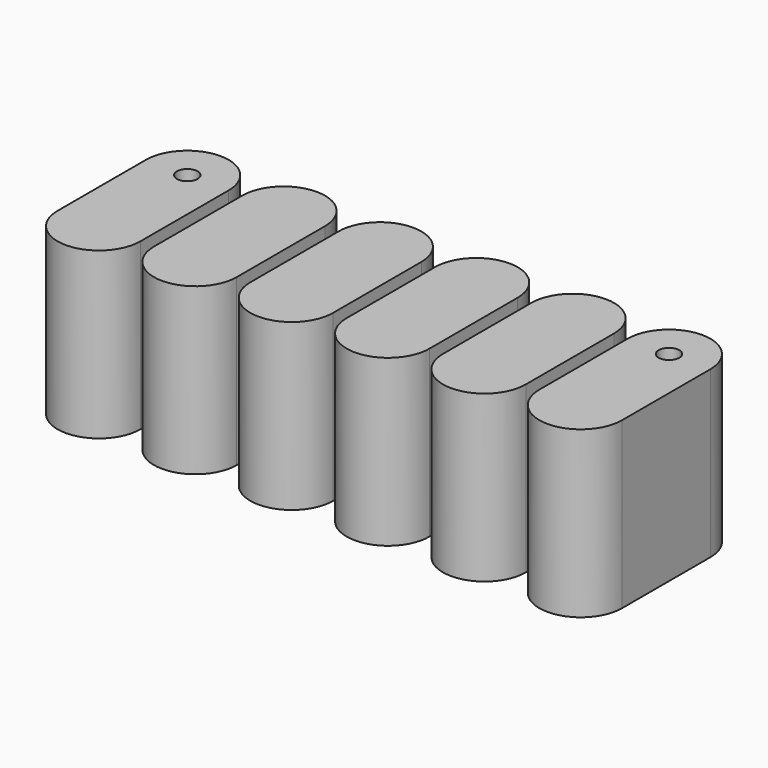
from build123d import *

# Parameters (mm, degrees)
F0_R     = 114.3
F1_DEPTH = 1828.8


with BuildPart() as f1:
    # F0 (on Top) → F1 (new body)
    with BuildSketch(Plane.XY):
        with BuildLine():
            ThreePointArc((457.2, 1219.2), (0, 1676.4), (-457.2, 1219.2))
            Line((-457.2, 1219.2), (-457.2, 0))
            ThreePointArc((-457.2, 0), (0, -457.2), (457.2, 0))
            Line((457.2, 0), (457.2, 1219.2))
        make_face()
        with Locations((0, 1219.2)):
            Circle(F0_R, mode=Mode.SUBTRACT)
        with BuildLine():
            Line((1523.996811, -2.608398), (1523.996811, 1216.591602))
            ThreePointArc((1523.996811, 1216.591602), (1066.796811, 1673.791602), (609.596811, 1216.591602))
            Line((609.596811, 1216.591602), (609.596811, -2.608398))
            ThreePointArc((609.596811, -2.608398), (1066.796811, -459.808398), (1523.996811, -2.608398))
        make_face()
        with BuildLine():
            Line((2590.793622, -5.216796), (2590.793622, 1213.983204))
            ThreePointArc((2590.793622, 1213.983204), (2133.593622, 1671.183204), (1676.393622, 1213.983204))
            Line((1676.393622, 1213.983204), (1676.393622, -5.216796))
            ThreePointArc((1676.393622, -5.216796), (2133.593622, -462.416796), (2590.793622, -5.216796))
        make_face()
        with BuildLine():
            Line((3657.590433, -7.825194), (3657.590433, 1211.374806))
            ThreePointArc((3657.590433, 1211.374806), (3200.390433, 1668.574806), (2743.190433, 1211.374806))
            Line((2743.190433, 1211.374806), (2743.190433, -7.825194))
            ThreePointArc((2743.190433, -7.825194), (3200.390433, -465.025194), (3657.590433, -7.825194))
        make_face()
        with BuildLine():
            Line((4724.387245, -10.433591), (4724.387245, 1208.766409))
            ThreePointArc((4724.387245, 1208.766409), (4267.187245, 1665.966409), (3809.987245, 1208.766409))
            Line((3809.987245, 1208.766409), (3809.987245, -10.433591))
            ThreePointArc((3809.987245, -10.433591), (4267.187245, -467.633591), (4724.387245, -10.433591))
        make_face()
        with BuildLine():
            Line((5791.184056, -13.041989), (5791.184056, 1206.158011))
            ThreePointArc((5791.184056, 1206.158011), (5333.984056, 1663.358011), (4876.784056, 1206.158011))
            Line((4876.784056, 1206.158011), (4876.784056, -13.041989))
            ThreePointArc((4876.784056, -13.041989), (5333.984056, -470.241989), (5791.184056, -13.041989))
        make_face()
        with Locations((5333.984056, 1206.158011)):
            Circle(F0_R, mode=Mode.SUBTRACT)
    extrude(amount=F1_DEPTH)


solid = f1.part
